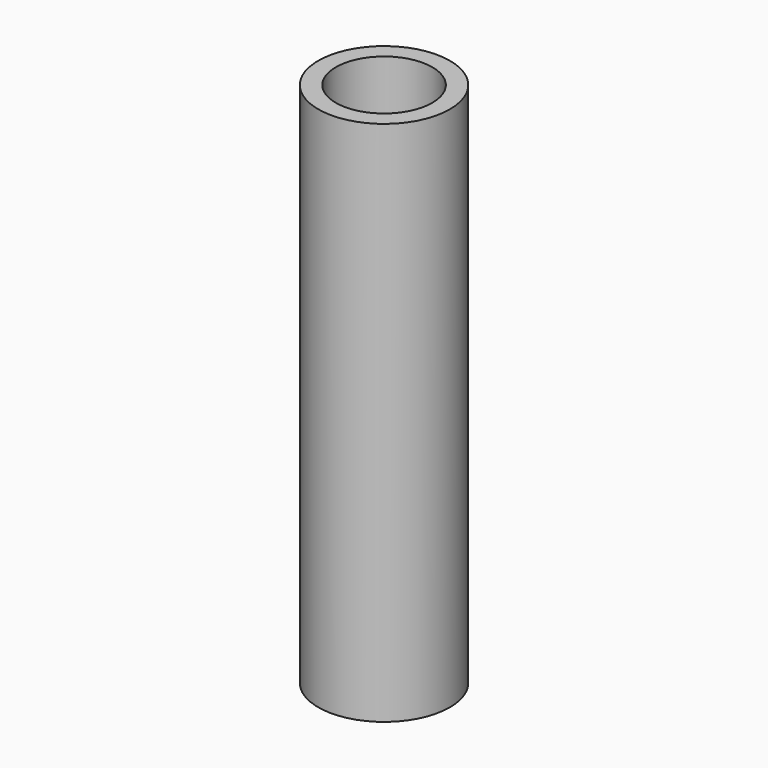
from build123d import *

# Parameters (mm, degrees)
F0_R     = 9.525
F1_DEPTH = 38.1
F2_T     = -2.54


with BuildPart() as f1:
    # F0 (on Top) → F1 (new body, symmetric)
    with BuildSketch(Plane.XY):
        Circle(F0_R)
    extrude(amount=F1_DEPTH, both=True)

    # F2
    f2_openings = [f1.faces().sort_by_distance(p)[0] for p in [
        (0, 0, 38.1),
        (0, 0, -38.1),
    ]]
    offset(amount=F2_T, openings=f2_openings)


solid = f1.part
